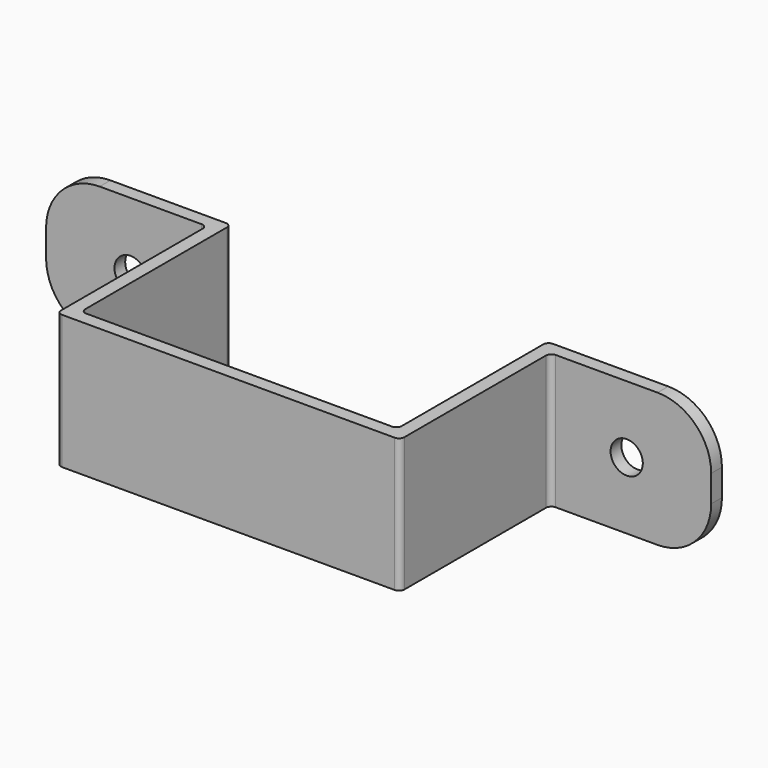
from build123d import *

# Parameters (mm, degrees)
F1_DEPTH = 25
F2_R     = 10
F3_R     = 1
F4_R     = 3
F5_DEPTH = 25


with BuildPart() as f1:
    # F0 (on Top) → F1 (new body)
    with BuildSketch(Plane.XY):
        Polygon((-30, 37.5), (-30, 35), (0, 35), (0, 0), (64, 0), (64, 35), (94, 35), (94, 37.5), (61.5, 37.5), (61.5, 2.5), (2.5, 2.5), (2.5, 37.5), align=None)
    extrude(amount=F1_DEPTH)

    # F2
    f2_edges = [f1.edges().sort_by_distance(p)[0] for p in [
        (-30, 36.25, 25),
        (-30, 36.25, 0),
        (94, 36.25, 0),
        (94, 36.25, 25),
    ]]
    fillet(f2_edges, radius=F2_R)

    # F3
    f3_edges = [f1.edges().sort_by_distance(p)[0] for p in [
        (64, 35, 12.5),
        (64, 0, 12.5),
        (0, 0, 12.5),
        (0, 35, 12.5),
        (2.5, 37.5, 12.5),
        (2.5, 2.5, 12.5),
        (61.5, 2.5, 12.5),
        (61.5, 37.5, 12.5),
    ]]
    fillet(f3_edges, radius=F3_R)

    # F4 (on face) → F5 (cut)
    with BuildSketch(Plane(origin=(0, 37.5, 0), x_dir=(-1, 0, 0), z_dir=(0, 1, 0))):
        with Locations((14.25, 12.5)):
            Circle(F4_R)
        with Locations((-78.25, 12.5)):
            Circle(F4_R)
    extrude(amount=-F5_DEPTH, mode=Mode.SUBTRACT)


solid = f1.part
